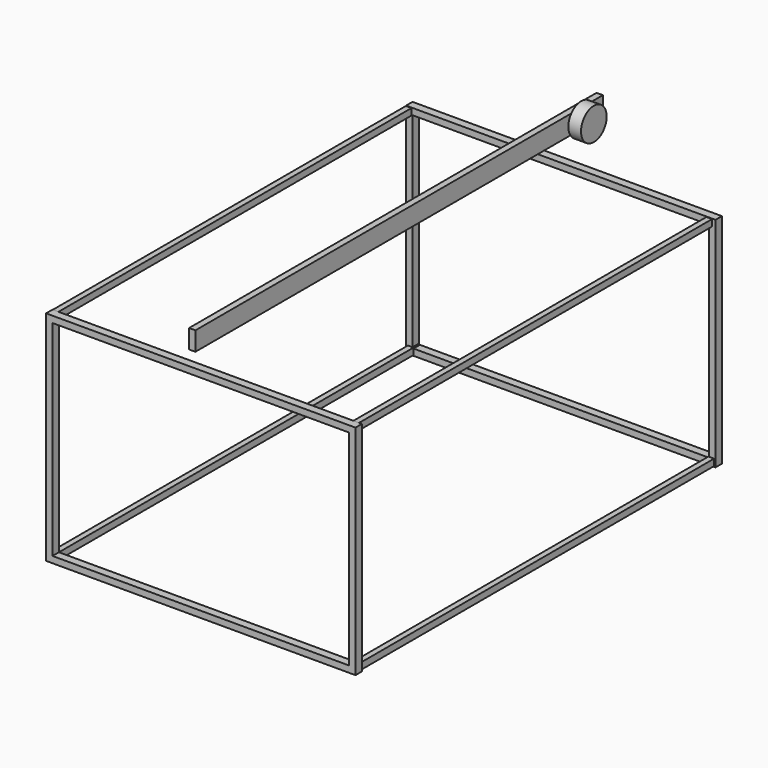
from build123d import *

# Parameters (mm, degrees)
F0_W      = 97.7168083191
F0_H      = 68.8288807869
F0_W_2    = 93.6528071761
F0_H_2    = 64.7648796439
F1_DEPTH  = 2.54
F6_W      = 1.7763152719
F6_H      = 2.0723715425
F7_DEPTH  = 141.7
F8_DEPTH  = 141.7
F9_DEPTH  = 141.7
F10_DEPTH = 141.7
F11_R     = 5.0573026927
F12_DEPTH = 2
F13_W     = 160.8517989516
F13_H     = 5.9691108763
F14_DEPTH = 2


with BuildPart() as f1:
    # F0 (on Front) → F1 (new body)
    with BuildSketch(Plane.XZ):
        Rectangle(F0_W, F0_H)
        Rectangle(F0_W_2, F0_H_2, mode=Mode.SUBTRACT)
    extrude(amount=F1_DEPTH)


with BuildPart() as f3_1:
    # F3: copy of F1
    add(f1.part.moved(Location((0, 142.1052739024, 0))))


with BuildPart() as f1_1:
    # F4: moved
    add(f1.part.moved(Location((0, -71, 0))))



with BuildPart() as f3_1_1:
    # F4: moved
    add(f3_1.part.moved(Location((0, -71, 0))))


with BuildPart() as f1_2:
    add(f1_1.part)

    add(f3_1_1.part)  # F7 merges F3_1
    # F6 (on offset) → F7 (join)
    with BuildSketch(Plane.XZ.offset(71)):
        with Locations((47.5164502859, -33.1578962505)):
            Rectangle(F6_W, F6_H)
    extrude(amount=-F7_DEPTH)

    # F6 (on offset) → F8 (join)
    with BuildSketch(Plane.XZ.offset(71)):
        with Locations((46.8881576359, 33.2361857712)):
            Rectangle(F6_W, F6_H)
    extrude(amount=-F8_DEPTH)

    # F6 (on offset) → F9 (join)
    with BuildSketch(Plane.XZ.offset(71)):
        with Locations((-48.0401350141, 33.2302677929)):
            Rectangle(F6_W, F6_H)
    extrude(amount=-F9_DEPTH)

    # F6 (on offset) → F10 (join)
    with BuildSketch(Plane.XZ.offset(71)):
        with Locations((-47.4118423641, -33.1638142288)):
            Rectangle(F6_W, F6_H)
    extrude(amount=-F10_DEPTH)


with BuildPart() as f12:
    # F11 (on Right) → F12 (new body, symmetric)
    with BuildSketch(Plane.YZ):
        with Locations((79.1189521551, 41.5385514498)):
            Circle(F11_R)
    extrude(amount=F12_DEPTH, both=True)

    # F13 (on face) → F14 (join)
    with BuildSketch(Plane(origin=(-2, 0, 0), x_dir=(0, -1, 0), z_dir=(-1, 0, 0))):
        with Locations((-7.258515805, 41.783766821)):
            Rectangle(F13_W, F13_H)
    extrude(amount=F14_DEPTH)


solid = Compound([f1_2.part, f12.part])
